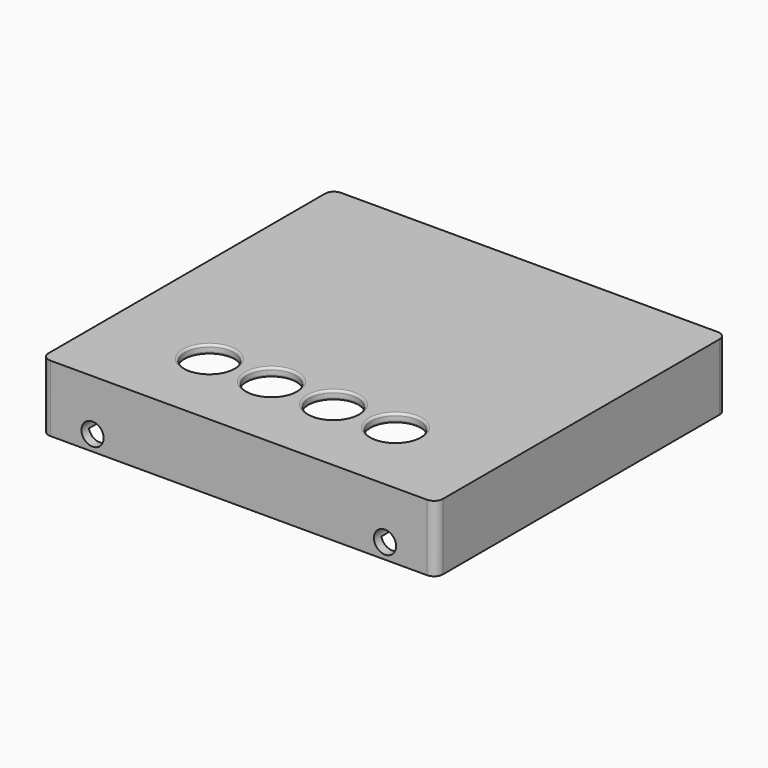
from build123d import *

# Parameters (mm, degrees)
SKETCH005_W     = 89
SKETCH005_H     = 82
SKETCH005_W_2   = 81
SKETCH005_H_2   = 74
PAD005_DEPTH    = 13
SKETCH006_W     = 89
SKETCH006_H     = 82
SKETCH006_R     = 5.5
PAD006_DEPTH    = 2
SKETCH007_W     = 9.5
SKETCH007_H     = 3.5
SKETCH007_W_2   = 19.1
SKETCH007_H_2   = 1
POCKET_DEPTH    = 4
SKETCH008_R     = 2.5
POCKET001_DEPTH = 4
SKETCH009_W     = 15
SKETCH009_H     = 1.95
POCKET002_DEPTH = 3
FILLET001_R     = 2
CHAMFER002_SIZE = 0.707
SKETCH011_W     = 12
SKETCH011_H     = 5
POCKET004_DEPTH = 2
FILLET002_R     = 0.5


with BuildPart() as part:
    # Sketch005 → Pad005 (new body)
    with BuildSketch(Plane.XY):
        with Locations((44.5, 41)):
            Rectangle(SKETCH005_W, SKETCH005_H)
        with Locations((44.5, 41)):
            Rectangle(SKETCH005_W_2, SKETCH005_H_2, mode=Mode.SUBTRACT)
    extrude(amount=PAD005_DEPTH)

    # Sketch006 (on Face10 of Pad005) → Pad006 (join)
    with BuildSketch(Plane.XY.offset(13)):
        with Locations((44.5, 41)):
            Rectangle(SKETCH006_W, SKETCH006_H)
        with Locations((23.5, 18)):
            Circle(SKETCH006_R, mode=Mode.SUBTRACT)
        with Locations((37.5, 18)):
            Circle(SKETCH006_R, mode=Mode.SUBTRACT)
        with Locations((51.5, 18)):
            Circle(SKETCH006_R, mode=Mode.SUBTRACT)
        with Locations((65.5, 18)):
            Circle(SKETCH006_R, mode=Mode.SUBTRACT)
    extrude(amount=PAD006_DEPTH)

    # Sketch007 (on Face15 of Pad006) → Pocket (cut)
    with BuildSketch(Plane(origin=(0, 82, 0), x_dir=(-1, 0, 0), z_dir=(0, 1, 0))):
        with Locations((-23.275, 1.75)):
            Rectangle(SKETCH007_W, SKETCH007_H)
        with Locations((-65.45, 0.5)):
            Rectangle(SKETCH007_W_2, SKETCH007_H_2)
    extrude(amount=-POCKET_DEPTH, mode=Mode.SUBTRACT)

    # Sketch008 (on Face11 of Pocket) → Pocket001 (cut)
    with BuildSketch(Plane.XZ):
        with Locations((11.525, 3.5)):
            Circle(SKETCH008_R)
        with Locations((77.525, 3.5)):
            Circle(SKETCH008_R)
    extrude(amount=-POCKET001_DEPTH, mode=Mode.SUBTRACT)

    # Sketch009 (on Face1 of Pocket001) → Pocket002 (cut)
    with BuildSketch(Plane(origin=(0, 0, 0), x_dir=(1, 0, 0), z_dir=(0, 0, -1))):
        Polygon((4, -4), (85, -4), (85, -78), (75, -78), (75, -79.95), (86.95, -79.95), (86.95, -2.05), (2.05, -2.05), (2.05, -79.95), (14, -79.95), (14, -78), (4, -78), align=None)
        with Locations((44.5, -78.975)):
            Rectangle(SKETCH009_W, SKETCH009_H)
    extrude(amount=-POCKET002_DEPTH, mode=Mode.SUBTRACT)

    # Fillet001
    fillet001_edges = [part.edges().sort_by_distance(p)[0] for p in [
        (89, 82, 7.5),
        (89, 0, 7.5),
        (0, 82, 7.5),
        (0, 0, 7.5),
    ]]
    fillet(fillet001_edges, radius=FILLET001_R)

    # Chamfer002
    chamfer002_edges = [part.edges().sort_by_distance(p)[0] for p in [
        (2.05, 41, 0),
        (8.025, 79.95, 0),
        (80.975, 79.95, 0),
        (86.95, 41, 0),
        (44.5, 2.05, 0),
    ]]
    chamfer(chamfer002_edges, length=CHAMFER002_SIZE)

    # Sketch011 (on Face4 of Chamfer002) → Pocket004 (cut)
    with BuildSketch(Plane(origin=(0, 82, 0), x_dir=(-1, 0, 0), z_dir=(0, 1, 0))):
        with Locations((-23.275, 2.5)):
            Rectangle(SKETCH011_W, SKETCH011_H)
    extrude(amount=-POCKET004_DEPTH, mode=Mode.SUBTRACT)

    # Fillet002
    fillet002_edges = [part.edges().sort_by_distance(p)[0] for p in [
        (60, 18, 13),
        (60, 18, 15),
        (46, 18, 13),
        (46, 18, 15),
        (32, 18, 13),
        (32, 18, 15),
        (18, 18, 13),
        (18, 18, 15),
    ]]
    fillet(fillet002_edges, radius=FILLET002_R)


with BuildPart() as part_1:
    # Body001 placement: moved
    add(part.part.moved(Location((0, 0, 4.6))))


solid = part_1.part
